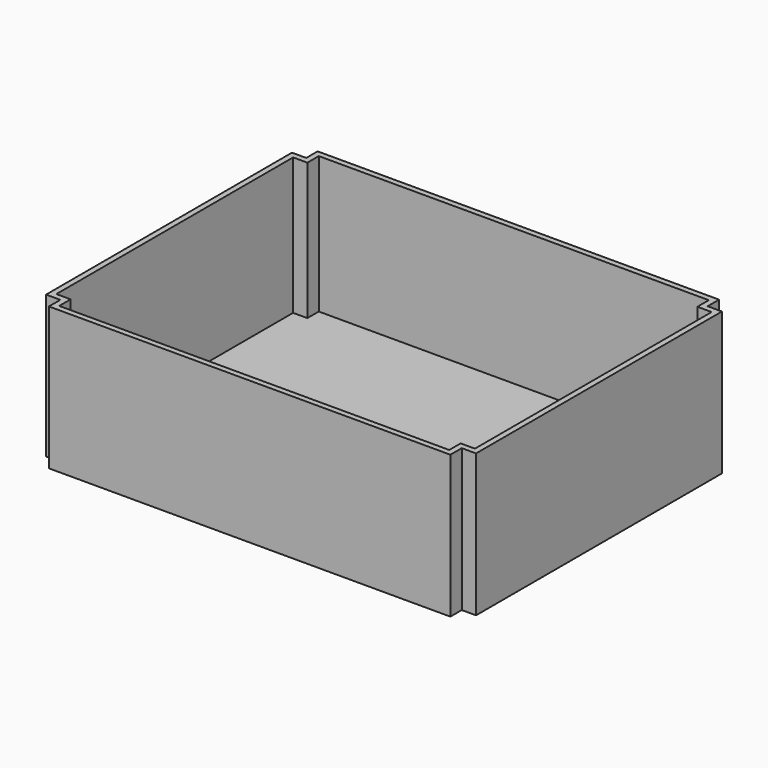
from build123d import *

# Parameters (mm, degrees)
F1_DEPTH = 25
F2_T     = -1


with BuildPart() as f1:
    # F0 (on Top) → F1 (new body)
    with BuildSketch(Plane.XY):
        Polygon((35.2, 26.95), (35.2, 29.45), (-35.2, 29.45), (-35.2, 26.95), (-37.7, 26.95), (-37.7, -26.95), (-35.2, -26.95), (-35.2, -29.45), (35.2, -29.45), (35.2, -26.95), (37.7, -26.95), (37.7, 26.95), align=None)
    extrude(amount=F1_DEPTH)

    # F2
    f2_openings = [f1.faces().sort_by_distance(p)[0] for p in [
        (0, 0, 25),
    ]]
    offset(amount=F2_T, openings=f2_openings, kind=Kind.INTERSECTION)


solid = f1.part
